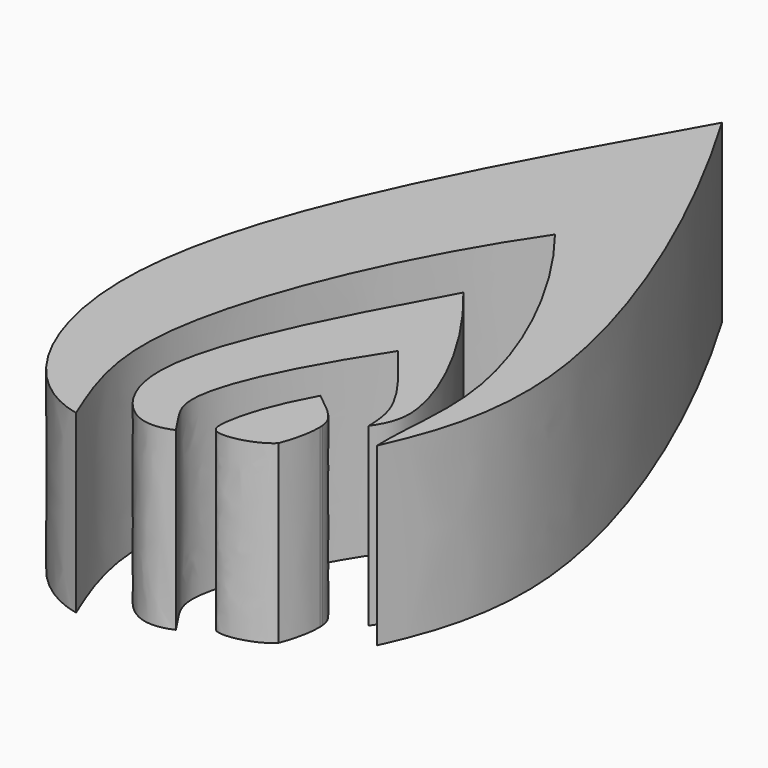
from build123d import *

# Parameters (mm, degrees)
F1_DEPTH = 10


with BuildPart() as f1:
    # F0 (on Top) → F1 (new body)
    with BuildSketch(Plane.XY):
        with BuildLine():
            add(Edge.make_bspline(
                [(-52.3558855057, 18.7795050442), (-47.4479237009, 10.4973188077), (-41.2077429849, -4.5023856475), (-43.6520873473, -12.2564412052), (-44.9143238366, -15.0175821036)],
                knots=[0, 0, 0, 0, 0.6168364814, 1, 1, 1, 1], degree=3))
            add(Edge.make_bspline(
                [(-52.3558855057, 18.7795050442), (-57.9370558262, 8.8574243709), (-67.5663953849, -7.8461265909), (-61.0377043486, -20.1336536556), (-57.3169253767, -20.9088176489)],
                knots=[0, 0, 0, 0, 0.6080836152, 1, 1, 1, 1], degree=3))
            add(Edge.make_bspline(
                [(-51.4256879687, 5.7567739859), (-55.3790181875, 0), (-60.7427232824, -12.5683599261), (-58.3128306392, -18.4721705598), (-57.3169253767, -20.9088176489)],
                knots=[0, 0, 0, 0, 0.6096241329, 1, 1, 1, 1], degree=3))
            add(Edge.make_bspline(
                [(-51.4256879687, 5.7567739859), (-47.9944117315, 1.4104907139), (-43.8064596306, -7.6148778158), (-44.9937747455, -12.792945198), (-44.9143238366, -15.0175821036)],
                knots=[0, 0, 0, 0, 0.5946990697, 1, 1, 1, 1], degree=3))
        make_face()
    extrude(amount=F1_DEPTH)


with BuildPart() as f1b:
    # F0 (on Top) → F1, piece 2 (new body)
    with BuildSketch(Plane.XY):
        with BuildLine():
            add(Edge.make_bspline(
                [(-51.1156246066, -1.1421727249), (-47.8599406779, -5.0955014303), (-44.8619365743, -11.2527871762), (-45.9975858714, -13.1776298191), (-46.3871322572, -13.7773221359)],
                knots=[0, 0, 0, 0, 0.6945515009, 1, 1, 1, 1], degree=3))
            add(Edge.make_bspline(
                [(-51.1156246066, -1.1421727249), (-54.0927626245, -6.5684166216), (-58.6000627072, -14.9886764983), (-55.3127155959, -19.8742326333), (-53.5626104353, -19.768439435), (-52.8209805489, -19.4360092282)],
                knots=[0, 0, 0, 0, 0.529374103, 0.8031081074, 1, 1, 1, 1], degree=3))
            add(Edge.make_bspline(
                [(-49.8753637075, -7.3434729129), (-52.5109171867, -11.3743189722), (-55.1292246794, -16.8376087906), (-53.4411109984, -18.4282977134), (-52.8209805489, -19.4360092282)],
                knots=[0, 0, 0, 0, 0.6563997062, 1, 1, 1, 1], degree=3))
            add(Edge.make_bspline(
                [(-49.8753637075, -7.3434729129), (-48.587773429, -8.8954036254), (-46.4868515082, -11.4276417975), (-46.4149626503, -13.1215558043), (-46.3871322572, -13.7773221359)],
                knots=[0, 0, 0, 0, 0.6128691723, 1, 1, 1, 1], degree=3))
        make_face()
    extrude(amount=F1_DEPTH)


with BuildPart() as f1c:
    # F0 (on Top) → F1, piece 3 (new body)
    with BuildSketch(Plane.XY):
        with BuildLine():
            add(Edge.make_bspline(
                [(-49.8753637075, -12.8471273929), (-48.4800711274, -13.9323538169), (-48.0941728507, -14.3057196723), (-48.0149723589, -15.0175821036)],
                knots=[0, 0, 0, 0, 0.5118541725, 0.5118541725, 0.5118541725, 0.5118541725], degree=3))
            add(Edge.make_bspline(
                [(-49.8753637075, -12.8471273929), (-51.1156246066, -15.0950979441), (-51.680103631, -17.3520157184), (-51.5206212484, -18.8345152572), (-49.1629198322, -18.2734716211), (-48.4800711274, -17.5756178796)],
                knots=[0, 0, 0, 0, 0.3478164855, 0.4885486688, 0.7516486779, 0.7516486779, 0.7516486779, 0.7516486779], degree=3))
            add(Edge.make_bspline(
                [(-48.0008768377, -15.2189599543), (-47.9792773024, -15.8830183498), (-48.1748734676, -16.7679655402), (-48.4800711274, -17.5756178796)],
                knots=[0.5582066502, 0.5582066502, 0.5582066502, 0.5582066502, 1, 1, 1, 1], degree=3))
            add(Edge.make_bspline(
                [(-48.0008768377, -15.2189599543), (-48.0056429614, -15.1518548305), (-48.0104385888, -15.0846922243), (-48.0149723589, -15.0175821036)],
                knots=[0.9823528755, 0.9823528755, 0.9823528755, 0.9823528755, 1, 1, 1, 1], degree=3))
        make_face()
    extrude(amount=F1_DEPTH)


solid = Compound([f1.part, f1b.part, f1c.part])
